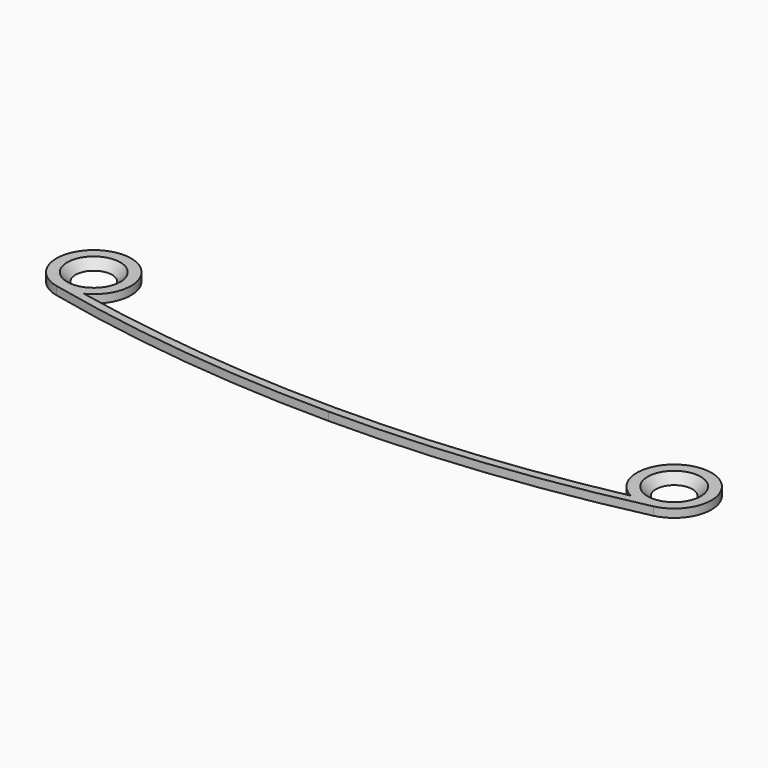
from build123d import *

# Parameters (mm, degrees)
PAD_DEPTH = 1


with BuildPart() as clone_of_countersunk001:
    # Sketch007 → Revolution001 (revolve)
    with BuildSketch(Plane.YZ):
        Polygon((3.2, 0), (1.5, -1.7), (1.5, -15), (0, -15), (0, 0), align=None)
    revolve(axis=Axis((0, 0, 0), (0, 0, 1)))


with BuildPart() as clone_of_countersunk001_1:
    # Clone placement: moved
    add(clone_of_countersunk001.part.moved(Location((35, 21, 1))))


with BuildPart() as countersunkcut:
    # Sketch → Pad (new body)
    with BuildSketch(Plane.XY):
        with BuildLine():
            ThreePointArc((35.990539, 16.610372), (35.549071, 25.466377), (32.975752, 16.980993))
            ThreePointArc((0, 13.6), (16.574312, 14.447458), (32.975752, 16.980993))
            Line((0, 13.6), (0, 12.6))
            ThreePointArc((0, 12.6), (18.106642, 13.605686), (35.990539, 16.610372))
        make_face()
    extrude(amount=PAD_DEPTH)

    # Cut: cut Clone of Countersunk001
    add(clone_of_countersunk001_1.part, mode=Mode.SUBTRACT)


with BuildPart() as part_mirroring:
    # Part__Mirroring: instance of CountersunkCut
    add(countersunkcut.part.mirror(Plane(origin=(0, 0, 0), x_dir=(0, -1, 0), z_dir=(1, 0, 0))))


with BuildPart() as sidemirror:
    # Fusion base: copy of CountersunkCut
    add(countersunkcut.part)

    # Fusion: union Part__Mirroring
    add(part_mirroring.part)


solid = sidemirror.part
